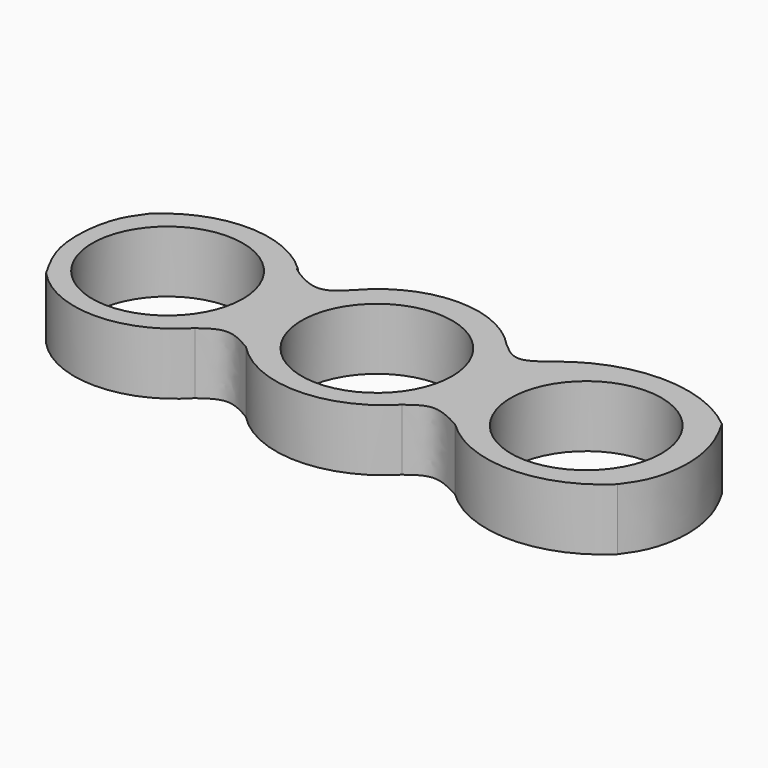
from build123d import *

# Parameters (mm, degrees)
F0_R     = 12.4079
F0_R_2   = 12.4057735838
F1_DEPTH = 10.16


with BuildPart() as f1:
    # F0 (on Top) → F1 (new body)
    with BuildSketch(Plane.XY):
        with BuildLine():
            add(Edge.make_bspline(
                [(12.3323677108, 11.279605329), (13.5133931439, 10.2423514616), (15.930054663, 8.1198810754), (18.6247213144, 10.2106154132), (20.0025010854, 11.279605329)],
                knots=[0, 0, 0, 0, 0.4887012202, 1, 1, 1, 1], degree=3))
            ThreePointArc((12.3323677108, 11.279605329), (-0.0670189582, 16.6247310316), (-12.3323686421, 10.9788160771))
            add(Edge.make_bspline(
                [(-12.3323686421, 10.9788160771), (-13.6421025221, 9.5610364707), (-16.2938840049, 6.6904978334), (-22.4204641161, 11.1142148961), (-21.8830130901, 10.9955469418), (-21.8072384596, 10.9788160771)],
                knots=[0, 0, 0, 0, 0.4560274015, 0.9233059002, 1, 1, 1, 1], degree=3))
            ThreePointArc((-21.8072384596, 10.9788160771), (-34.0644102544, 15.9432881525), (-46.3215820491, 10.9788160771))
            add(Edge.make_bspline(
                [(-46.3215820491, 10.9788160771), (-47.2762818491, 9.6823836473), (-49.5124805226, 6.6457427262), (-50.3540258041, -3.2315240376), (-47.6310103888, -7.9552994571), (-46.3215820491, -10.226842016)],
                knots=[0, 0, 0, 0, 0.2788852047, 0.6532343725, 1, 1, 1, 1], degree=3))
            ThreePointArc((-46.3215820491, -10.226842016), (-34.0644102544, -15.5804151639), (-21.8072384596, -10.226842016))
            add(Edge.make_bspline(
                [(-21.8072384596, -10.226842016), (-20.5936033827, -9.3505348125), (-18.0512065555, -7.5147930017), (-14.9867464839, -9.2959406016), (-13.3851328865, -10.226842016)],
                knots=[0, 0, 0, 0, 0.4773586342, 1, 1, 1, 1], degree=3))
            ThreePointArc((-13.3851328865, -10.226842016), (-0.5263825879, -15.7074423278), (12.3323677108, -10.226842016))
            add(Edge.make_bspline(
                [(12.3323677108, -10.226842016), (13.4736383167, -9.3657797493), (15.9378530478, -7.506586749), (19.2676304149, -9.2765925385), (21.0552625358, -10.226842016)],
                knots=[0, 0, 0, 0, 0.4631376444, 1, 1, 1, 1], degree=3))
            ThreePointArc((21.0552625358, -10.226842016), (34.440394491, -15.6541076439), (47.8255264461, -10.226842016))
            add(Edge.make_bspline(
                [(47.8255264461, -10.226842016), (48.6447105013, -9.0890357292), (50.4672516958, -6.557615817), (51.7507272354, 0.0525058685), (50.3787224911, 6.674657533), (48.6387607378, 9.8128548746), (47.8255264461, 11.279605329)],
                knots=[0, 0, 0, 0, 0.2197712101, 0.4889524902, 0.7611433936, 1, 1, 1, 1], degree=3))
            ThreePointArc((47.8255264461, 11.279605329), (33.9140137658, 16.3194389974), (20.0025010854, 11.279605329))
        make_face()
        with Locations((-34.4855412841, 0)):
            Circle(F0_R, mode=Mode.SUBTRACT)
        Circle(F0_R_2, mode=Mode.SUBTRACT)
        with Locations((34.4910735838, 0)):
            Circle(F0_R, mode=Mode.SUBTRACT)
    extrude(amount=F1_DEPTH)


solid = f1.part
